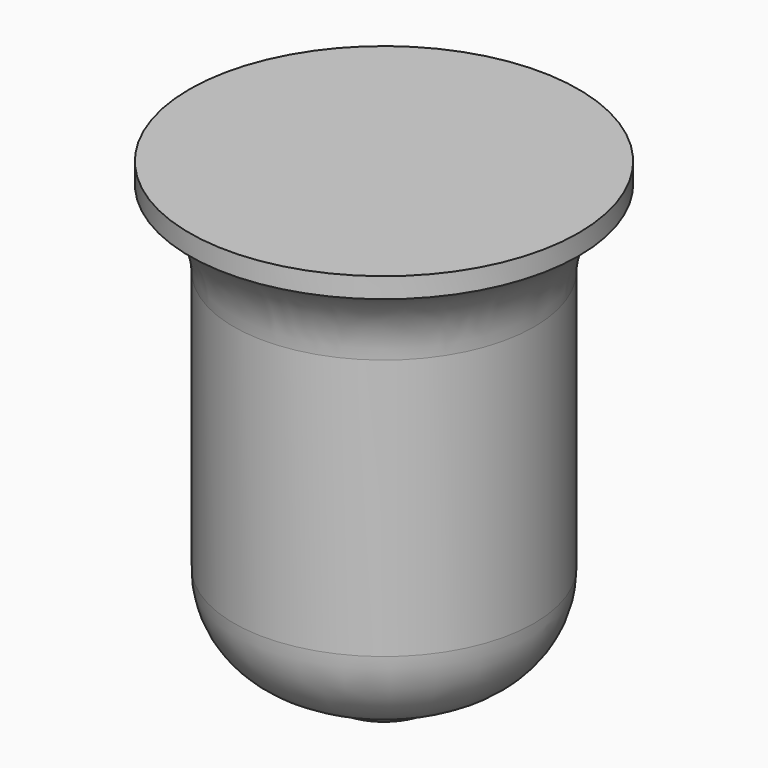
from build123d import *


with BuildPart() as f1:
    # F0 (on Front) → F1 (revolve)
    with BuildSketch(Plane.XZ):
        with BuildLine():
            Line((24, 0), (0, 0))
            Line((0, 0), (0, -58))
            Line((0, -58), (4.995272, -58))
            ThreePointArc((4.995272, -58), (6.591419, -57.338855), (7.252564, -55.742708))
            Line((7.252564, -55.742708), (7.252564, -55.428754))
            ThreePointArc((7.252564, -55.428754), (15.233567, -52.122914), (18.539406, -44.141912))
            Line((18.539406, -44.141912), (18.539406, -11.958026))
            ThreePointArc((18.539406, -11.958026), (20.002568, -6.497432), (24, -2.5))
            Line((24, -2.5), (24, 0))
        make_face()
    revolve(axis=Axis((0, 0, -29), (0, 0, -1)))


solid = f1.part
